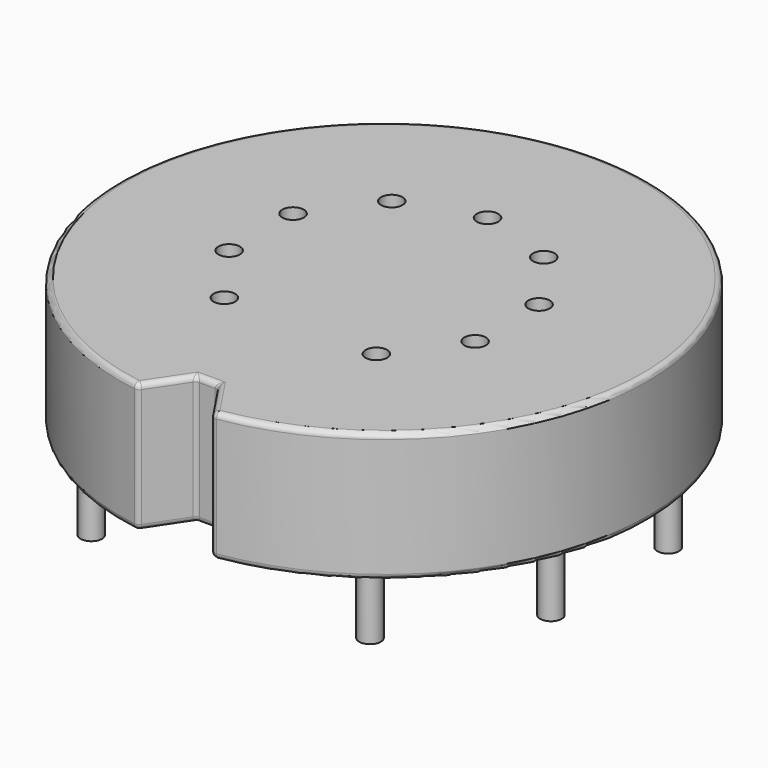
from build123d import *

# Parameters (mm, degrees)
SKETCH_R      = 0.5
PAD_DEPTH     = 6
FILLET_R      = 0.25
FILLET001_R   = 0.25
SKETCH001_R   = 0.5
SKETCH001_R_2 = 2.5
PAD001_DEPTH  = 3


with BuildPart() as part:
    # Sketch → Pad (new body)
    with BuildSketch(Plane.XY):
        with BuildLine():
            ThreePointArc((1.75, -12.124356), (0, 12.25), (-1.75, -12.124356))
            Line((-1.75, -12.124356), (-0.5, -10.25))
            Line((-0.5, -10.25), (0.5, -10.25))
            Line((0.5, -10.25), (1.75, -12.124356))
        make_face()
        with Locations((-3.526712, -4.854102)):
            Circle(SKETCH_R, mode=Mode.SUBTRACT)
        with Locations((-5.706339, -1.854102)):
            Circle(SKETCH_R, mode=Mode.SUBTRACT)
        with Locations((-5.706339, 1.854102)):
            Circle(SKETCH_R, mode=Mode.SUBTRACT)
        with Locations((-3.526712, 4.854102)):
            Circle(SKETCH_R, mode=Mode.SUBTRACT)
        with Locations((0, 6)):
            Circle(SKETCH_R, mode=Mode.SUBTRACT)
        with Locations((3.526712, 4.854102)):
            Circle(SKETCH_R, mode=Mode.SUBTRACT)
        with Locations((5.706339, 1.854102)):
            Circle(SKETCH_R, mode=Mode.SUBTRACT)
        with Locations((5.706339, -1.854102)):
            Circle(SKETCH_R, mode=Mode.SUBTRACT)
        with Locations((3.526712, -4.854102)):
            Circle(SKETCH_R, mode=Mode.SUBTRACT)
    extrude(amount=PAD_DEPTH)

    # Fillet
    fillet_edges = [part.edges().sort_by_distance(p)[0] for p in [
        (0, 12.25, 6),
        (1.125, -11.187178, 6),
        (0, -10.25, 6),
        (-1.125, -11.187178, 6),
        (0, 12.25, 0),
        (-1.125, -11.187178, 0),
        (0, -10.25, 0),
        (1.125, -11.187178, 0),
    ]]
    fillet(fillet_edges, radius=FILLET_R)

    # Fillet001
    fillet001_edges = [part.edges().sort_by_distance(p)[0] for p in [
        (-1.75, -12.124356, 3),
        (-0.5, -10.25, 3),
        (0.5, -10.25, 3),
        (1.75, -12.124356, 3),
    ]]
    fillet(fillet001_edges, radius=FILLET001_R)

    # Sketch001 (on Face8 of Fillet001) → Pad001 (join)
    with BuildSketch(Plane(origin=(0, 0, 0), x_dir=(1, 0, 0), z_dir=(0, 0, -1))):
        with Locations((-6.465638, 8.899187)):
            Circle(SKETCH001_R)
        with Locations((-10.461622, 3.399187)):
            Circle(SKETCH001_R)
        with Locations((-10.461622, -3.399187)):
            Circle(SKETCH001_R)
        with Locations((-6.465638, -8.899187)):
            Circle(SKETCH001_R)
        with Locations((0, -11)):
            Circle(SKETCH001_R)
        with Locations((6.465638, -8.899187)):
            Circle(SKETCH001_R)
        with Locations((10.461622, -3.399187)):
            Circle(SKETCH001_R)
        with Locations((10.461622, 3.399187)):
            Circle(SKETCH001_R)
        with Locations((6.465638, 8.899187)):
            Circle(SKETCH001_R)
        Circle(SKETCH001_R_2)
    extrude(amount=PAD001_DEPTH)


solid = part.part
